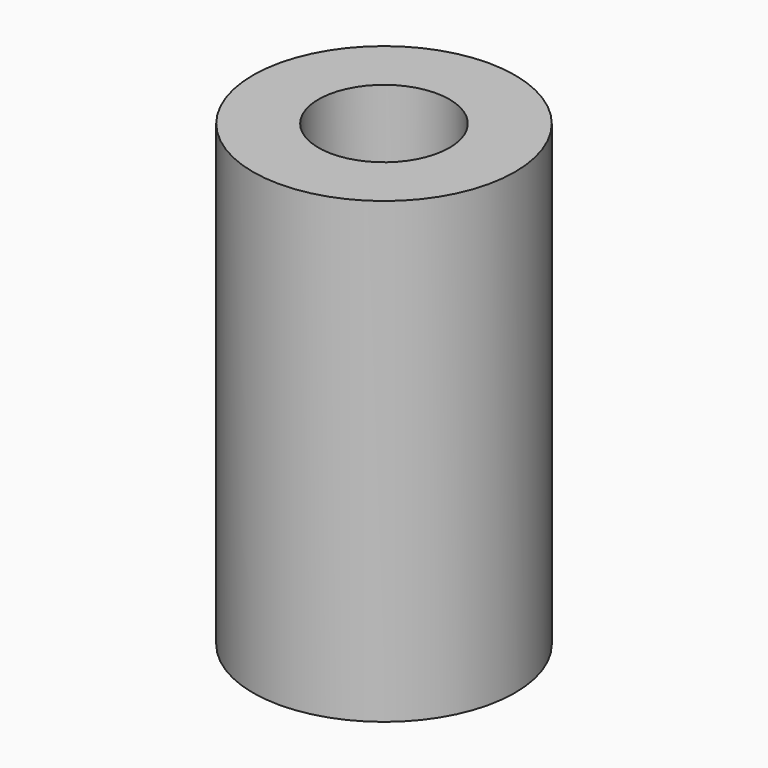
from build123d import *

# Parameters (mm, degrees)
SKETCH_R        = 10
PAD_DEPTH       = 35
SKETCH001_R     = 2.75
POCKET_DEPTH    = 35.001
SKETCH002_R     = 5
POCKET001_DEPTH = 10


with BuildPart() as part:
    # Sketch → Pad (new body)
    with BuildSketch(Plane.XY):
        Circle(SKETCH_R)
    extrude(amount=PAD_DEPTH)

    # Sketch001 (on Face3 of Pad) → Pocket (cut, through all)
    with BuildSketch(Plane.XY.offset(35)):
        Circle(SKETCH001_R)
    extrude(amount=-POCKET_DEPTH, mode=Mode.SUBTRACT)

    # Sketch002 (on Face3 of Pocket) → Pocket001 (cut)
    with BuildSketch(Plane.XY.offset(35)):
        Circle(SKETCH002_R)
    extrude(amount=-POCKET001_DEPTH, mode=Mode.SUBTRACT)


solid = part.part
